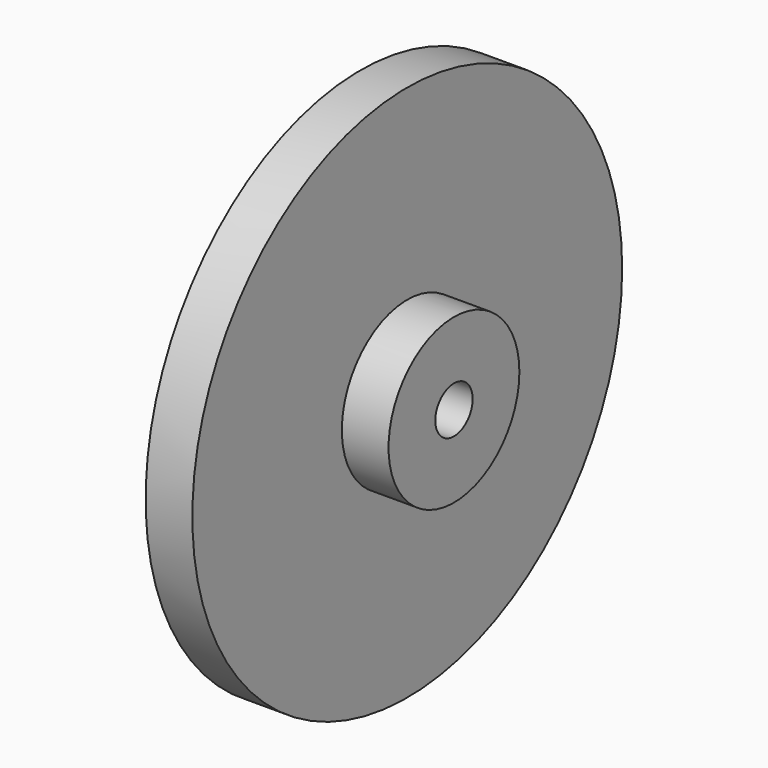
from build123d import *

# Parameters (mm, degrees)
F0_R     = 11.5
F1_DEPTH = 2
F2_R     = 3.5
F3_DEPTH = 2
F4_R     = 1
F5_DEPTH = 4.001


with BuildPart() as f1:
    # F0 (on Right) → F1 (new body)
    with BuildSketch(Plane.YZ):
        Circle(F0_R)
    extrude(amount=F1_DEPTH)

    # F2 (on face) → F3 (join)
    with BuildSketch(Plane.YZ.offset(2)):
        Circle(F2_R)
    extrude(amount=F3_DEPTH)

    # F4 (on face) → F5 (cut, through all)
    with BuildSketch(Plane.YZ.offset(4)):
        Circle(F4_R)
    extrude(amount=-F5_DEPTH, mode=Mode.SUBTRACT)


solid = f1.part
